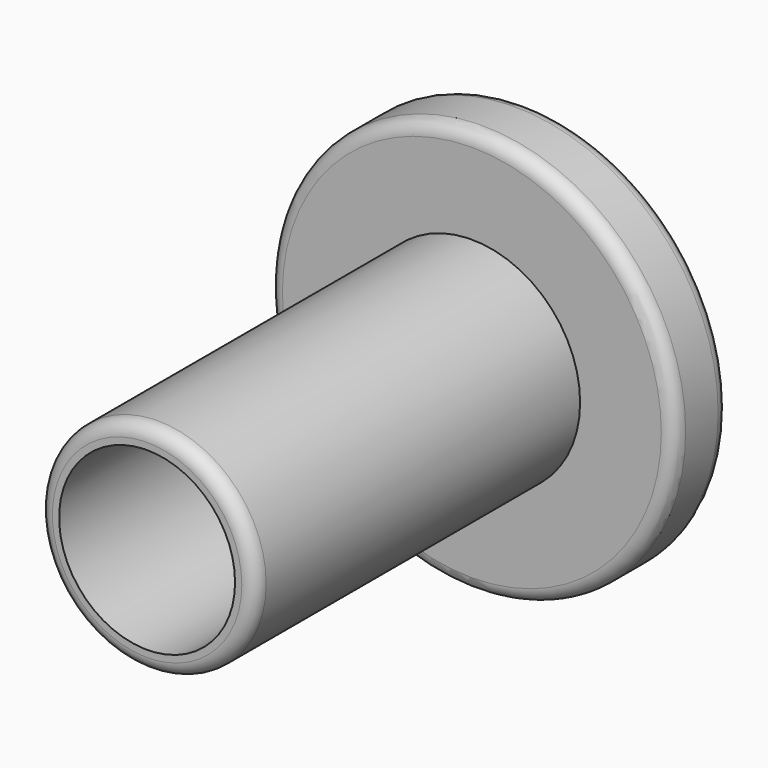
from build123d import *

# Parameters (mm, degrees)
F0_R     = 40.64
F0_R_2   = 33.02
F1_DEPTH = 152.4
F2_R     = 76.2
F3_DEPTH = 25.4
F4_R     = 5.08
F5_R     = 5.08


with BuildPart() as f1:
    # F0 (on Front) → F1 (new body)
    with BuildSketch(Plane.XZ):
        Circle(F0_R)
        Circle(F0_R_2, mode=Mode.SUBTRACT)
    extrude(amount=F1_DEPTH)

    # F2 (on Front) → F3 (join)
    with BuildSketch(Plane.XZ):
        Circle(F2_R)
    extrude(amount=-F3_DEPTH)

    # F4
    f4_edges = [f1.edges().sort_by_distance(p)[0] for p in [
        (76.2, 12.7, 0),
        (-76.2, 0, 0),
        (-76.2, 25.4, 0),
    ]]
    fillet(f4_edges, radius=F4_R)

    # F5
    f5_edges = [f1.edges().sort_by_distance(p)[0] for p in [
        (-40.64, -152.4, 0),
    ]]
    fillet(f5_edges, radius=F5_R)


solid = f1.part
